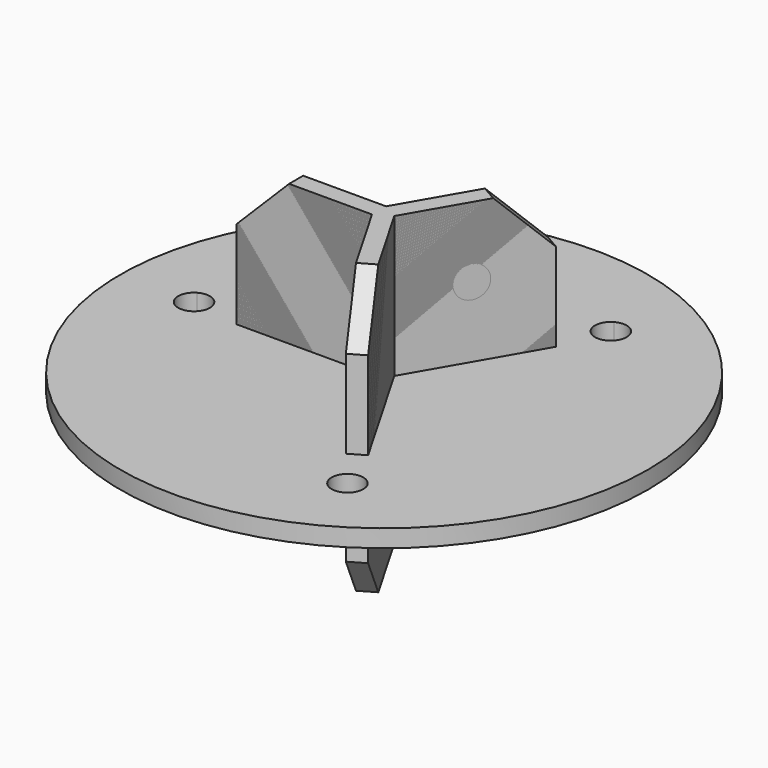
from build123d import *

# Parameters (mm, degrees)
F0_R      = 150
F1_DEPTH  = 10
F2_R      = 9
F3_DEPTH  = 25
F5_DEPTH  = 80
F8_SIZE   = 30
F9_R      = 9
F10_DEPTH = 25
F11_COUNT = 3


with BuildPart() as f1:
    # F0 (on Top) → F1 (new body)
    with BuildSketch(Plane.XY):
        Circle(F0_R)
    extrude(amount=F1_DEPTH)

    # F2 (on face) → F3 (cut)
    with BuildSketch(Plane.XY.offset(10)):
        with Locations((-108, 0)):
            Circle(F2_R)
        with BuildLine():
            ThreePointArc((63, 93.5307436087), (49.5, 101.3249722428), (49.5, 85.7365149747))
            ThreePointArc((49.5, 85.7365149747), (58.5, 85.7365149747), (63, 93.5307436087))
        make_face()
        with BuildLine():
            ThreePointArc((63, -93.5307436087), (58.5, -85.7365149747), (49.5, -85.7365149747))
            ThreePointArc((49.5, -85.7365149747), (49.5, -101.3249722428), (63, -93.5307436087))
        make_face()
    extrude(amount=-F3_DEPTH, mode=Mode.SUBTRACT)



with BuildPart() as f5:
    # F4 (on face) → F5 (new body)
    with BuildSketch(Plane.XY.offset(10)):
        Polygon((35.5916715378, 71.6465834297), (-2.8867513459, 5), (-79.8435971134, 5), (-79.8435971134, -5), (-2.8867513459, -5), (35.6698729811, -71.7820323028), (44.3301276345, -66.7820319474), (5.7735035126, 0), (44.2519261912, 66.6465830743), align=None)
    extrude(amount=F5_DEPTH)


with BuildPart() as f1_1:
    add(f1.part)

    add(f5.part)  # F7 merges F5
    # F7: F5 across plane
    add(f5.part.mirror(Plane.XY.offset(8)))

    # F8
    f8_edges = [f1_1.edges().sort_by_distance(p)[0] for p in [
        (-79.843597, 0, 90),
        (39.921799, 69.146583, 90),
        (40, -69.282032, 90),
        (39.921799, 69.146583, -74),
        (-79.843597, 0, -74),
        (40, -69.282032, -74),
    ]]
    chamfer(f8_edges, length=F8_SIZE)

    # F9 (on face) → F10 (cut)
    with BuildSketch(Plane(origin=(-4.3301270189, 2.5, 0), x_dir=(-0.5, -0.8660254038, 0), z_dir=(-0.8660254038, 0.5, 0))):
        with Locations((-39.8435971134, 50)):
            Circle(F9_R)
    extrude(amount=-F10_DEPTH, mode=Mode.SUBTRACT)


with BuildPart() as f11_1:
    # F11: instance of F1
    add(f1_1.part.rotate(Axis((0, 0, 0), (0, 0, -1)), 1 * 360 / F11_COUNT))


with BuildPart() as f11_2:
    # F11: instance of F1
    add(f1_1.part.rotate(Axis((0, 0, 0), (0, 0, -1)), 2 * 360 / F11_COUNT))


solid = Compound([f1_1.part, f11_1.part, f11_2.part])
